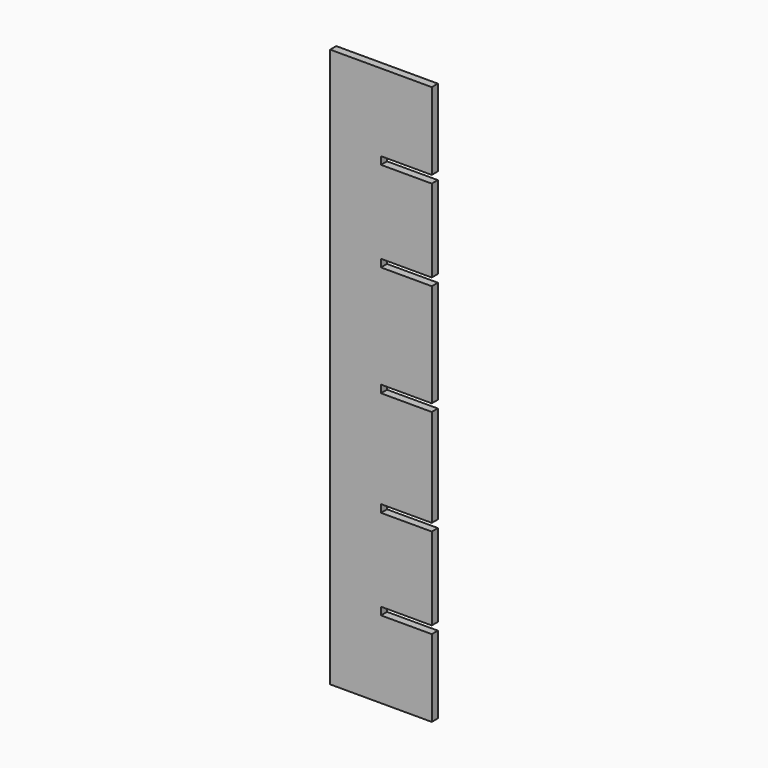
from build123d import *

# Parameters (mm, degrees)
F1_DEPTH = 3


with BuildPart() as f1:
    # F0 (on Front) → F1 (new body)
    with BuildSketch(Plane.XZ):
        Polygon((20, 110), (-20, 110), (-20, -110), (20, -110), (20, -79.576584), (0, -79.576584), (0, -76.566584), (20, -76.566584), (20, -44.016003), (0, -44.016003), (0, -41.006003), (20, -41.006003), (20, -2.601781), (0, -2.601781), (0, 0.408219), (20, 0.408219), (20, 41.006003), (0, 41.006003), (0, 44.016003), (20, 44.016003), (20, 76.566584), (0, 76.566584), (0, 79.576584), (20, 79.576584), align=None)
    extrude(amount=F1_DEPTH)


solid = f1.part
